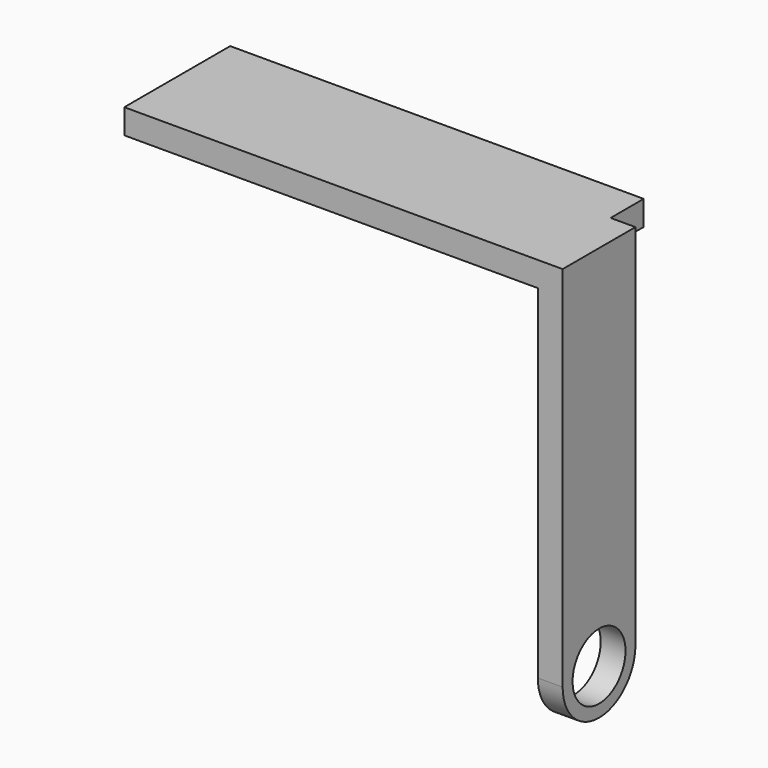
from build123d import *

# Parameters (mm, degrees)
SKETCH056_R     = 0.8
PAD036_DEPTH    = 0.6
SKETCH066_W     = 2.2
SKETCH066_H     = 0.6
PAD032_DEPTH    = 10
PAD032_FACE12_W = 10
PAD032_FACE12_H = 0.6
PAD037_DEPTH    = 1


with BuildPart() as part:
    # Sketch056 → Pad036 (new body)
    with BuildSketch(Plane.YZ):
        with BuildLine():
            Line((0, -8.9), (0, 0))
            Line((0, 0), (2.2, 0))
            Line((2.2, 0), (2.2, -8.9))
            ThreePointArc((0, -8.9), (1.1, -10), (2.2, -8.9))
        make_face()
        with Locations((1.1, -8.9)):
            Circle(SKETCH056_R, mode=Mode.SUBTRACT)
    extrude(amount=PAD036_DEPTH)

    # Sketch066 (on Face6 of Pad036) → Pad032 (join)
    with BuildSketch(Plane(origin=(0, 0, 0), x_dir=(0, 1, 0), z_dir=(-1, 0, 0))):
        with Locations((1.1, 0.3)):
            Rectangle(SKETCH066_W, SKETCH066_H)
    extrude(amount=PAD032_DEPTH)

    # Pad032 Face12 → Pad037 (add)
    with BuildSketch(Plane(origin=(-5, 2.2, -0.3), x_dir=(1, 0, 0), z_dir=(0, 1, 0))):
        Rectangle(PAD032_FACE12_W, PAD032_FACE12_H)
    extrude(amount=PAD037_DEPTH)


with BuildPart() as part_1:
    # Body007 placement: moved
    add(part.part.moved(Location((10, 12.3, 5.5))))


solid = part_1.part
